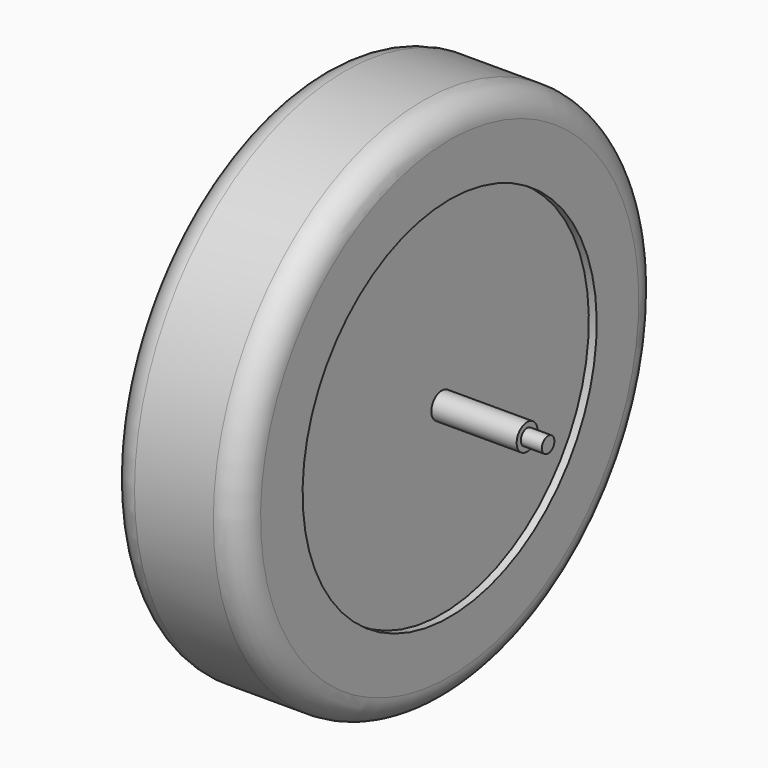
from build123d import *


with BuildPart() as f1:
    # F0 (on Front) → F1 (revolve)
    with BuildSketch(Plane.XZ):
        with BuildLine():
            Line((0, 90), (0, 70))
            Line((0, 70), (3, 70))
            Line((3, 70), (3, 4.98063))
            Line((3, 4.98063), (-29.5, 4.98063))
            Line((-29.5, 4.98063), (-29.5, 2.98063))
            Line((-29.5, 2.98063), (-37.5, 2.98063))
            Line((-37.5, 2.98063), (-37.5, 0))
            Line((-37.5, 0), (3, 0))
            Line((3, 0), (25, 0))
            Line((25, 0), (47, 0))
            Line((47, 0), (87.5, 0))
            Line((87.5, 0), (87.5, 2.98063))
            Line((87.5, 2.98063), (79.5, 2.98063))
            Line((79.5, 2.98063), (79.5, 4.98063))
            Line((79.5, 4.98063), (47, 4.98063))
            Line((47, 4.98063), (47, 70))
            Line((47, 70), (50, 70))
            Line((50, 70), (50, 90))
            ThreePointArc((50, 90), (47.071068, 97.071068), (40, 100))
            Line((40, 100), (10, 100))
            ThreePointArc((10, 100), (2.928932, 97.071068), (0, 90))
        make_face()
    revolve(axis=Axis((-48.292573, 0, 0), (1, 0, 0)))


solid = f1.part
